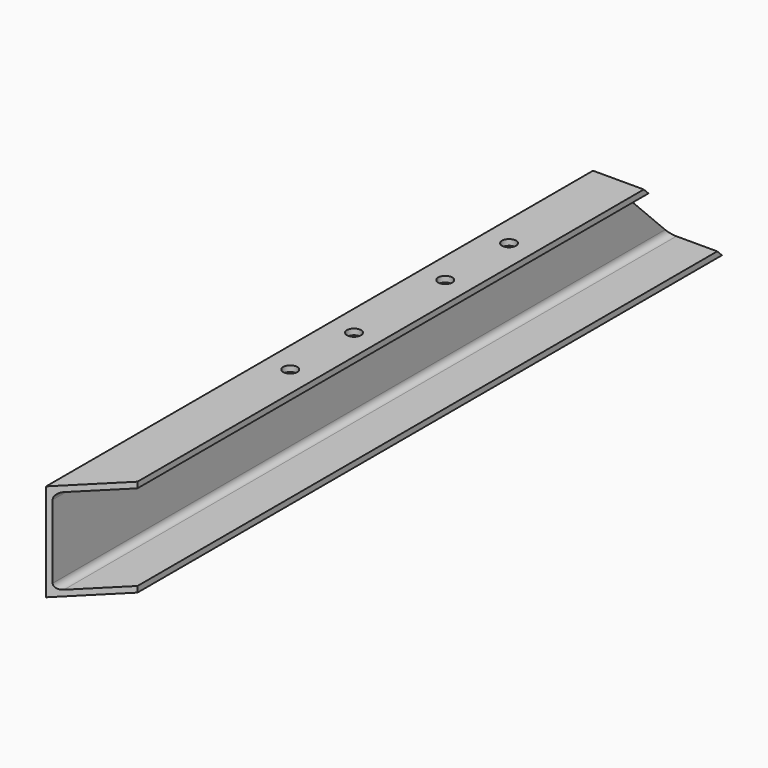
from build123d import *

# Parameters (mm, degrees)
F1_DEPTH = 1000
F3_DEPTH = 65.001
F5_DEPTH = 125.001
F6_R     = 9
F7_DEPTH = 7.5
F8_R     = 9
F9_DEPTH = 7.5


with BuildPart() as f1:
    # F0 (on Front) → F1 (new body)
    with BuildSketch(Plane.XZ):
        with BuildLine():
            Line((-25.16784, 62.5), (-25.16784, -62.5))
            Line((-25.16784, -62.5), (39.83216, -62.5))
            Line((39.83216, -62.5), (39.83216, -55))
            Line((39.83216, -55), (-12.46784, -55))
            ThreePointArc((-12.46784, -55), (-18.124695, -52.656854), (-20.46784, -47))
            Line((-20.46784, -47), (-20.46784, 47))
            ThreePointArc((-20.46784, 47), (-18.124695, 52.656854), (-12.46784, 55))
            Line((-12.46784, 55), (39.83216, 55))
            Line((39.83216, 55), (39.83216, 62.5))
            Line((39.83216, 62.5), (-25.16784, 62.5))
        make_face()
    extrude(amount=F1_DEPTH)

    # F2 (on face) → F3 (cut, through all)
    with BuildSketch(Plane(origin=(-25.16784, 0, 0), x_dir=(0, -1, 0), z_dir=(-1, 0, 0))):
        Polygon((125, 62.5), (0, 62.5), (0, -62.5), align=None)
    extrude(amount=-F3_DEPTH, mode=Mode.SUBTRACT)

    # F4 (on face) → F5 (cut, through all)
    with BuildSketch(Plane.XY.offset(62.5)):
        Polygon((-25.16784, -1000), (39.83216, -1000), (39.83216, -935), align=None)
    extrude(amount=-F5_DEPTH, mode=Mode.SUBTRACT)

    # F6 (on face) → F7 (cut, through all)
    with BuildSketch(Plane.XY.offset(62.5)):
        with Locations((7.33216, -548)):
            Circle(F6_R)
        with Locations((7.33216, -650)):
            Circle(F6_R)
    extrude(amount=-F7_DEPTH, mode=Mode.SUBTRACT)

    # F8 (on face) → F9 (cut, through all)
    with BuildSketch(Plane.XY.offset(62.5)):
        with Locations((7.33216, -300)):
            Circle(F8_R)
        with Locations((7.33216, -402)):
            Circle(F8_R)
    extrude(amount=-F9_DEPTH, mode=Mode.SUBTRACT)


solid = f1.part
